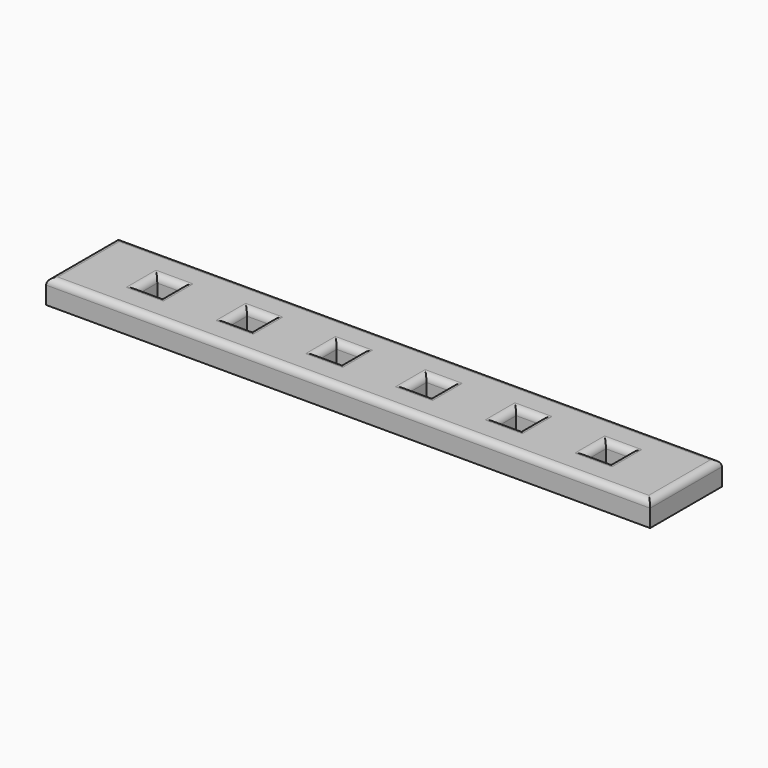
from build123d import *

# Parameters (mm, degrees)
SKETCH_W   = 276
SKETCH_H   = 41
SKETCH_W_2 = 11
SKETCH_H_2 = 11
PAD_DEPTH  = 11
FILLET_R   = 3


with BuildPart() as part:
    # Sketch → Pad (new body)
    with BuildSketch(Plane.XY):
        Rectangle(SKETCH_W, SKETCH_H)
        with Locations((-102.5, 0)):
            Rectangle(SKETCH_W_2, SKETCH_H_2, mode=Mode.SUBTRACT)
        with Locations((-61.5, 0)):
            Rectangle(SKETCH_W_2, SKETCH_H_2, mode=Mode.SUBTRACT)
        with Locations((-20.5, 0)):
            Rectangle(SKETCH_W_2, SKETCH_H_2, mode=Mode.SUBTRACT)
        with Locations((20.5, 0)):
            Rectangle(SKETCH_W_2, SKETCH_H_2, mode=Mode.SUBTRACT)
        with Locations((61.5, 0)):
            Rectangle(SKETCH_W_2, SKETCH_H_2, mode=Mode.SUBTRACT)
        with Locations((102.5, 0)):
            Rectangle(SKETCH_W_2, SKETCH_H_2, mode=Mode.SUBTRACT)
    extrude(amount=PAD_DEPTH)

    # Fillet
    fillet_edges = [part.edges().sort_by_distance(p)[0] for p in [
        (-138, 0, 11),
        (0, -20.5, 11),
        (138, 0, 11),
        (0, 20.5, 11),
        (97, 0, 11),
        (102.5, -5.5, 11),
        (108, 0, 11),
        (102.5, 5.5, 11),
        (56, 0, 11),
        (61.5, -5.5, 11),
        (67, 0, 11),
        (61.5, 5.5, 11),
        (15, 0, 11),
        (20.5, -5.5, 11),
        (26, 0, 11),
        (20.5, 5.5, 11),
        (-26, 0, 11),
        (-20.5, -5.5, 11),
        (-15, 0, 11),
        (-20.5, 5.5, 11),
        (-67, 0, 11),
        (-61.5, -5.5, 11),
        (-56, 0, 11),
        (-61.5, 5.5, 11),
        (-108, 0, 11),
        (-102.5, -5.5, 11),
        (-97, 0, 11),
        (-102.5, 5.5, 11),
    ]]
    fillet(fillet_edges, radius=FILLET_R)


solid = part.part
